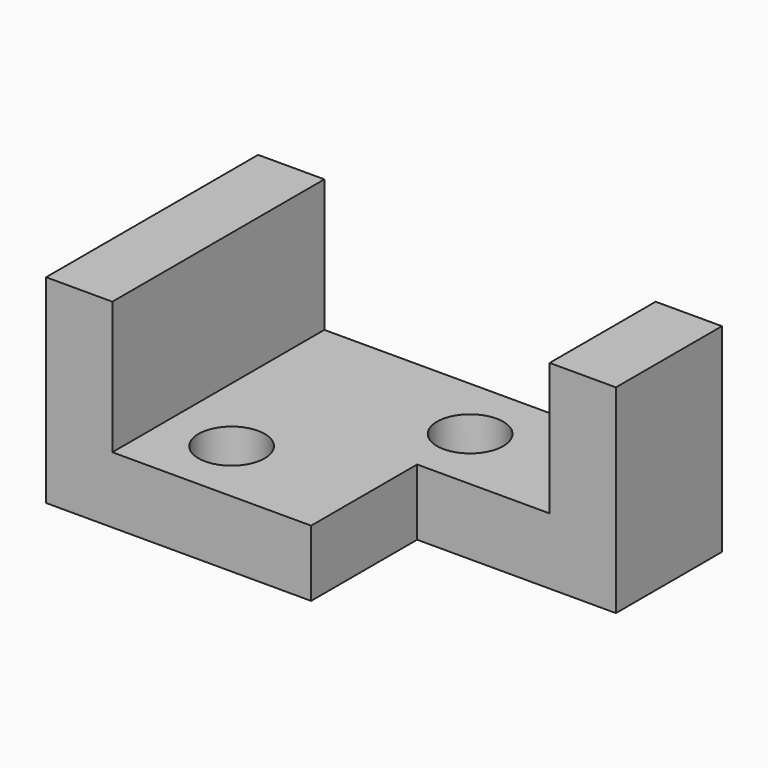
from build123d import *

# Parameters (mm, degrees)
F0_W      = 88.9
F0_H      = 38.1
F1_DEPTH  = 50.8
F2_W      = 63.5
F2_H      = 25.4
F3_DEPTH  = 50.801
F4_W      = 25.4
F4_H      = 25.4
F5_DEPTH  = 12.701
F6_W      = 12.7
F6_H      = 25.4
F7_DEPTH  = 38.101
F8_R      = 6.35
F9_DEPTH  = 12.701
F10_R     = 6.35
F11_DEPTH = 12.701


with BuildPart() as f1:
    # F0 (on Front) → F1 (new body)
    with BuildSketch(Plane.XZ):
        Rectangle(F0_W, F0_H)
    extrude(amount=F1_DEPTH)

    # F2 (on face) → F3 (cut, through all)
    with BuildSketch(Plane.XZ.offset(50.8)):
        with Locations((0, 6.35)):
            Rectangle(F2_W, F2_H)
    extrude(amount=-F3_DEPTH, mode=Mode.SUBTRACT)

    # F4 (on face) → F5 (cut, through all)
    with BuildSketch(Plane.XY.offset(-6.35)):
        with Locations((19.05, -38.1)):
            Rectangle(F4_W, F4_H)
    extrude(amount=-F5_DEPTH, mode=Mode.SUBTRACT)

    # F6 (on face) → F7 (cut, through all)
    with BuildSketch(Plane.XY.offset(19.05)):
        with Locations((38.1, -38.1)):
            Rectangle(F6_W, F6_H)
    extrude(amount=-F7_DEPTH, mode=Mode.SUBTRACT)

    # F8 (on face) → F9 (cut, through all)
    with BuildSketch(Plane.XY.offset(-6.35)):
        with Locations((6.35, -12.7)):
            Circle(F8_R)
    extrude(amount=-F9_DEPTH, mode=Mode.SUBTRACT)

    # F10 (on face) → F11 (cut, through all)
    with BuildSketch(Plane.XY.offset(-6.35)):
        with Locations((-19.05, -38.1)):
            Circle(F10_R)
    extrude(amount=-F11_DEPTH, mode=Mode.SUBTRACT)


solid = f1.part
